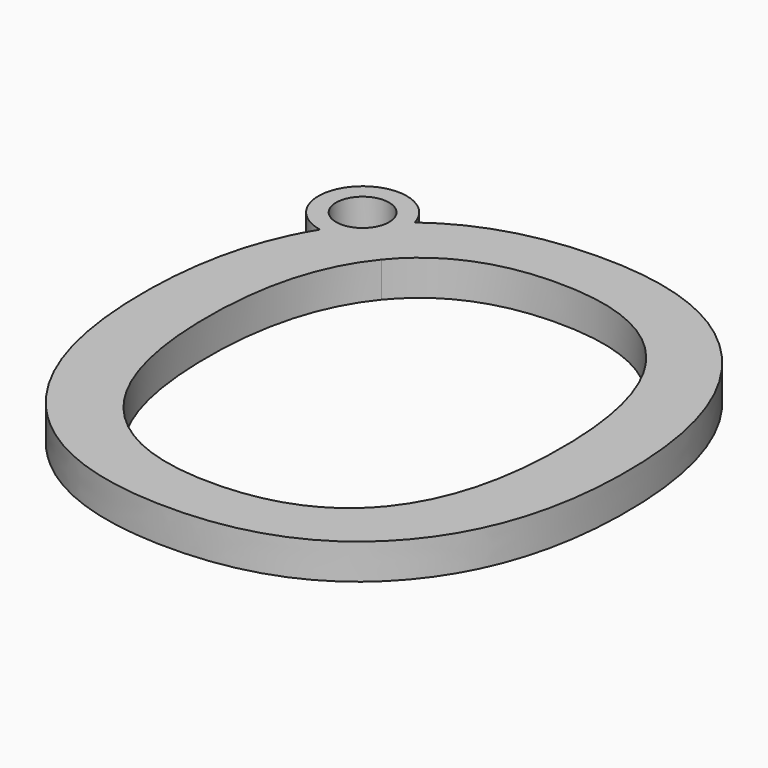
from build123d import *

# Parameters (mm, degrees)
F1_DEPTH = 2


with BuildPart() as f1:
    # F0 (on Top) → F1 (new body)
    with BuildSketch(Plane.XY):
        with BuildLine():
            ThreePointArc((-24.8998329028, 27.6808396444), (-24.8290748141, 27.3436829228), (-24.8053385417, 27))
            ThreePointArc((-24.8053385417, 27), (-25.6993803239, 25.0840411792), (-27.742057104, 24.5384401496))
            add(Edge.make_bspline(
                [(-30.0651041667, 14.9544270833), (-30.0651041667, 20.8065878214), (-27.742057104, 24.5384401496)],
                knots=[0, 0, 0, 0.8054586822, 0.8054586822, 0.8054586822], degree=2))
            add(Edge.make_bspline(
                [(-26.494140625, 3.6100260417), (-30.0651041667, 7.6302083333), (-30.0651041667, 14.9544270833)],
                knots=[0, 0, 0, 1, 1, 1], degree=2))
            add(Edge.make_bspline(
                [(-16.3541666667, -0.41015625), (-22.9231770833, -0.41015625), (-26.494140625, 3.6100260417)],
                knots=[0, 0, 0, 1, 1, 1], degree=2))
            add(Edge.make_bspline(
                [(-6.3151041667, 3.681640625), (-9.9283854167, -0.41015625), (-16.3541666667, -0.41015625)],
                knots=[0, 0, 0, 1, 1, 1], degree=2))
            add(Edge.make_bspline(
                [(-2.7018229167, 14.9153645833), (-2.7018229167, 7.7734375), (-6.3151041667, 3.681640625)],
                knots=[0, 0, 0, 1, 1, 1], degree=2))
            add(Edge.make_bspline(
                [(-6.3020833333, 26.1458333333), (-2.7018229167, 22.0768229167), (-2.7018229167, 14.9153645833)],
                knots=[0, 0, 0, 1, 1, 1], degree=2))
            add(Edge.make_bspline(
                [(-16.3151041667, 30.21484375), (-9.90234375, 30.21484375), (-6.3020833333, 26.1458333333)],
                knots=[0, 0, 0, 1, 1, 1], degree=2))
            add(Edge.make_bspline(
                [(-24.8998329028, 27.6808396444), (-21.5608153562, 30.21484375), (-16.3151041667, 30.21484375)],
                knots=[0.2038130052, 0.2038130052, 0.2038130052, 1, 1, 1], degree=2))
        make_face()
        with BuildLine():
            add(Edge.make_bspline(
                [(-26.40625, 14.9153645833), (-26.40625, 8.8736979167), (-23.8313802083, 5.7486979167)],
                knots=[0, 0, 0, 1, 1, 1], degree=2))
            add(Edge.make_bspline(
                [(-23.8313802083, 23.9973958333), (-26.40625, 20.8723958333), (-26.40625, 14.9153645833)],
                knots=[0, 0, 0, 1, 1, 1], degree=2))
            add(Edge.make_bspline(
                [(-16.3151041667, 27.1223958333), (-21.2565104167, 27.1223958333), (-23.8313802083, 23.9973958333)],
                knots=[0, 0, 0, 1, 1, 1], degree=2))
            add(Edge.make_bspline(
                [(-8.8802083333, 24.0201822917), (-11.3932291667, 27.1223958333), (-16.3151041667, 27.1223958333)],
                knots=[0, 0, 0, 1, 1, 1], degree=2))
            add(Edge.make_bspline(
                [(-6.3671875, 14.9153645833), (-6.3671875, 20.91796875), (-8.8802083333, 24.0201822917)],
                knots=[0, 0, 0, 1, 1, 1], degree=2))
            add(Edge.make_bspline(
                [(-8.8899739583, 5.7356770833), (-6.3671875, 8.84765625), (-6.3671875, 14.9153645833)],
                knots=[0, 0, 0, 1, 1, 1], degree=2))
            add(Edge.make_bspline(
                [(-16.3541666667, 2.6236979167), (-11.4127604167, 2.6236979167), (-8.8899739583, 5.7356770833)],
                knots=[0, 0, 0, 1, 1, 1], degree=2))
            add(Edge.make_bspline(
                [(-23.8313802083, 5.7486979167), (-21.2565104167, 2.6236979167), (-16.3541666667, 2.6236979167)],
                knots=[0, 0, 0, 1, 1, 1], degree=2))
        make_face(mode=Mode.SUBTRACT)
        with BuildLine():
            add(Edge.make_bspline(
                [(-25.8079387729, 26.9117167489), (-25.3730329403, 27.3217247787), (-24.8998329028, 27.6808396444)],
                knots=[0.0909787028, 0.0909787028, 0.0909787028, 0.2038130052, 0.2038130052, 0.2038130052], degree=2))
            ThreePointArc((-24.8998329028, 27.6808396444), (-29.1594419057, 28.6769915669), (-27.742057104, 24.5384401496))
            add(Edge.make_bspline(
                [(-27.742057104, 24.5384401496), (-27.4242986655, 25.0489022867), (-27.0630755781, 25.5196930533)],
                knots=[0.8054586822, 0.8054586822, 0.8054586822, 0.9156335027, 0.9156335027, 0.9156335027], degree=2))
            ThreePointArc((-27.0630755781, 25.5196930533), (-28.4484471204, 27.9712377553), (-25.8053385417, 27))
            ThreePointArc((-25.8053385417, 27), (-25.8059887404, 26.9558392323), (-25.8079387729, 26.9117167489))
        make_face()
        with BuildLine():
            ThreePointArc((-27.742057104, 24.5384401496), (-25.6993803239, 25.0840411792), (-24.8053385417, 27))
            ThreePointArc((-24.8053385417, 27), (-24.8290748141, 27.3436829228), (-24.8998329028, 27.6808396444))
            add(Edge.make_bspline(
                [(-25.8079387729, 26.9117167489), (-25.3730329403, 27.3217247787), (-24.8998329028, 27.6808396444)],
                knots=[0.0909787028, 0.0909787028, 0.0909787028, 0.2038130052, 0.2038130052, 0.2038130052], degree=2))
            ThreePointArc((-25.8079387729, 26.9117167489), (-26.1913191981, 25.9955295415), (-27.0630755781, 25.5196930533))
            add(Edge.make_bspline(
                [(-27.742057104, 24.5384401496), (-27.4242986655, 25.0489022867), (-27.0630755781, 25.5196930533)],
                knots=[0.8054586822, 0.8054586822, 0.8054586822, 0.9156335027, 0.9156335027, 0.9156335027], degree=2))
        make_face()
    extrude(amount=F1_DEPTH)


solid = f1.part
